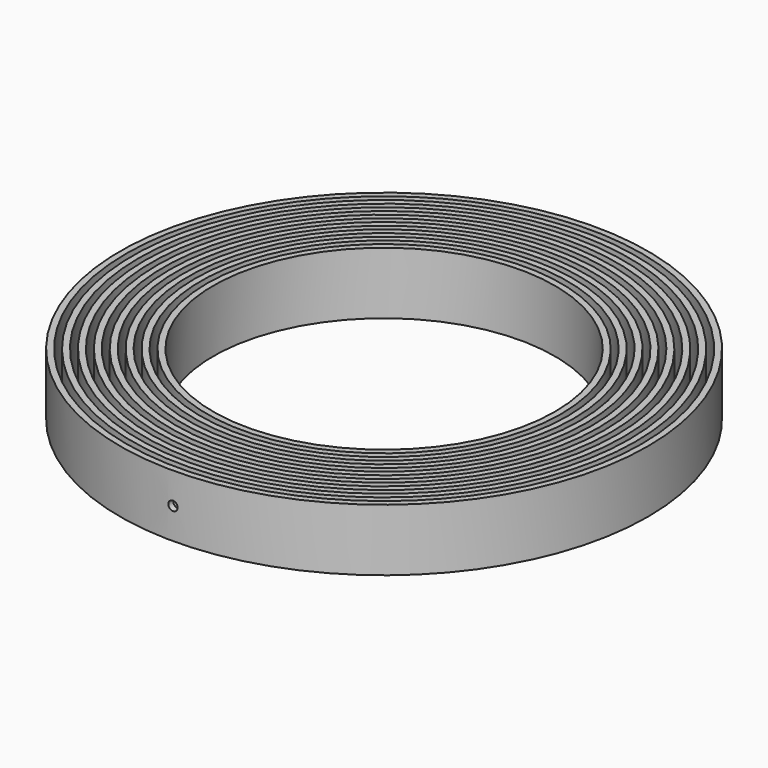
from build123d import *

# Parameters (mm, degrees)
F0_R       = 85
F0_R_2     = 83
F1_DEPTH   = 20
F0_R_3     = 81
F0_R_4     = 79
F0_R_5     = 77
F0_R_6     = 75
F0_R_7     = 73
F0_R_8     = 71
F0_R_9     = 69
F0_R_10    = 67
F0_R_11    = 65
F0_R_12    = 63
F0_R_13    = 61
F0_R_14    = 59
F0_R_15    = 57
F0_R_16    = 55
F3_D       = 3
F3_DEPTH   = 85.001
F3_2_D     = 3
F3_2_DEPTH = 85.001
F3_3_D     = 3
F3_3_DEPTH = 85.001
F3_4_D     = 3
F3_4_DEPTH = 85.001
F3_5_D     = 3
F3_5_DEPTH = 85.001
F3_6_D     = 3
F3_6_DEPTH = 85.001
F3_7_D     = 3
F3_7_DEPTH = 85.001
F3_8_D     = 3
F3_8_DEPTH = 85.001


with BuildPart() as f1:
    # F0 (on Top) → F1 (new body)
    with BuildSketch(Plane.XY):
        Circle(F0_R)
        Circle(F0_R_2, mode=Mode.SUBTRACT)
    extrude(amount=F1_DEPTH)

    # F3 (through all, one way)
    with BuildSketch(Plane(origin=(0, 0, 0), x_dir=(1, 0, 0), z_dir=(0, 1, 0))):
        with Locations((0, -10)):
            Circle(F3_D / 2)
    extrude(amount=-F3_DEPTH, mode=Mode.SUBTRACT)


with BuildPart() as f1b:
    # F0 (on Top) → F1, piece 2 (new body)
    with BuildSketch(Plane.XY):
        Circle(F0_R_3)
        Circle(F0_R_4, mode=Mode.SUBTRACT)
    extrude(amount=F1_DEPTH)

    # F3#2 (through all, one way)
    with BuildSketch(Plane(origin=(0, 0, 0), x_dir=(1, 0, 0), z_dir=(0, 1, 0))):
        with Locations((0, -10)):
            Circle(F3_2_D / 2)
    extrude(amount=-F3_2_DEPTH, mode=Mode.SUBTRACT)


with BuildPart() as f1c:
    # F0 (on Top) → F1, piece 3 (new body)
    with BuildSketch(Plane.XY):
        Circle(F0_R_5)
        Circle(F0_R_6, mode=Mode.SUBTRACT)
    extrude(amount=F1_DEPTH)

    # F3#3 (through all, one way)
    with BuildSketch(Plane(origin=(0, 0, 0), x_dir=(1, 0, 0), z_dir=(0, 1, 0))):
        with Locations((0, -10)):
            Circle(F3_3_D / 2)
    extrude(amount=-F3_3_DEPTH, mode=Mode.SUBTRACT)


with BuildPart() as f1d:
    # F0 (on Top) → F1, piece 4 (new body)
    with BuildSketch(Plane.XY):
        Circle(F0_R_7)
        Circle(F0_R_8, mode=Mode.SUBTRACT)
    extrude(amount=F1_DEPTH)

    # F3#4 (through all, one way)
    with BuildSketch(Plane(origin=(0, 0, 0), x_dir=(1, 0, 0), z_dir=(0, 1, 0))):
        with Locations((0, -10)):
            Circle(F3_4_D / 2)
    extrude(amount=-F3_4_DEPTH, mode=Mode.SUBTRACT)


with BuildPart() as f1e:
    # F0 (on Top) → F1, piece 5 (new body)
    with BuildSketch(Plane.XY):
        Circle(F0_R_9)
        Circle(F0_R_10, mode=Mode.SUBTRACT)
    extrude(amount=F1_DEPTH)

    # F3#5 (through all, one way)
    with BuildSketch(Plane(origin=(0, 0, 0), x_dir=(1, 0, 0), z_dir=(0, 1, 0))):
        with Locations((0, -10)):
            Circle(F3_5_D / 2)
    extrude(amount=-F3_5_DEPTH, mode=Mode.SUBTRACT)


with BuildPart() as f1f:
    # F0 (on Top) → F1, piece 6 (new body)
    with BuildSketch(Plane.XY):
        Circle(F0_R_11)
        Circle(F0_R_12, mode=Mode.SUBTRACT)
    extrude(amount=F1_DEPTH)

    # F3#6 (through all, one way)
    with BuildSketch(Plane(origin=(0, 0, 0), x_dir=(1, 0, 0), z_dir=(0, 1, 0))):
        with Locations((0, -10)):
            Circle(F3_6_D / 2)
    extrude(amount=-F3_6_DEPTH, mode=Mode.SUBTRACT)


with BuildPart() as f1g:
    # F0 (on Top) → F1, piece 7 (new body)
    with BuildSketch(Plane.XY):
        Circle(F0_R_13)
        Circle(F0_R_14, mode=Mode.SUBTRACT)
    extrude(amount=F1_DEPTH)

    # F3#7 (through all, one way)
    with BuildSketch(Plane(origin=(0, 0, 0), x_dir=(1, 0, 0), z_dir=(0, 1, 0))):
        with Locations((0, -10)):
            Circle(F3_7_D / 2)
    extrude(amount=-F3_7_DEPTH, mode=Mode.SUBTRACT)


with BuildPart() as f1h:
    # F0 (on Top) → F1, piece 8 (new body)
    with BuildSketch(Plane.XY):
        Circle(F0_R_15)
        Circle(F0_R_16, mode=Mode.SUBTRACT)
    extrude(amount=F1_DEPTH)

    # F3#8 (through all, one way)
    with BuildSketch(Plane(origin=(0, 0, 0), x_dir=(1, 0, 0), z_dir=(0, 1, 0))):
        with Locations((0, -10)):
            Circle(F3_8_D / 2)
    extrude(amount=-F3_8_DEPTH, mode=Mode.SUBTRACT)


solid = Compound([f1.part, f1b.part, f1c.part, f1d.part, f1e.part, f1f.part, f1g.part, f1h.part])
